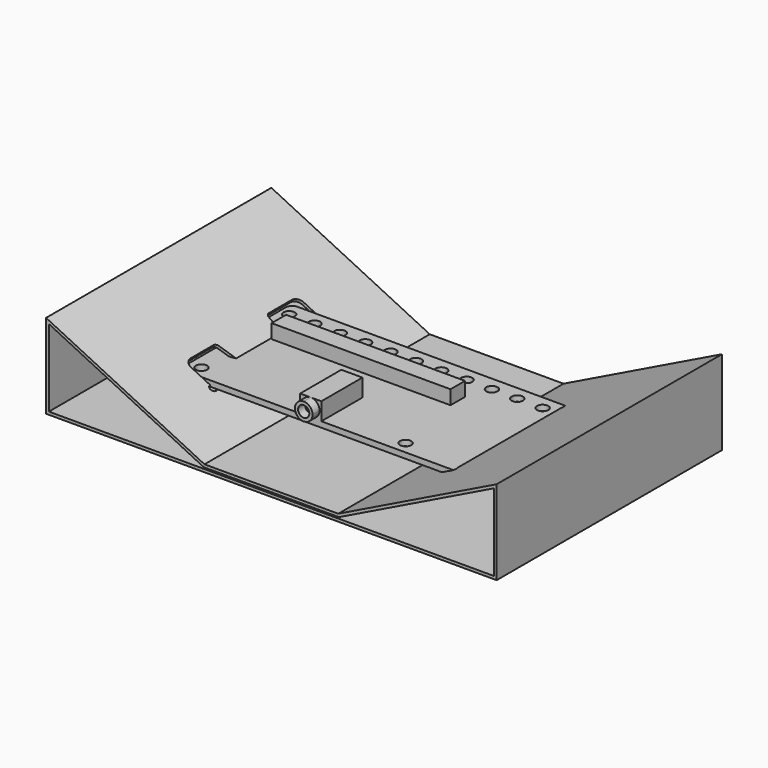
from build123d import *

# Parameters (mm, degrees)
F0_W      = 84.6
F0_H      = 39.65
F0_R      = 1.6
F1_DEPTH  = 1.6
F2_R      = 1.9
F3_W      = 6
F3_H      = 14.6
F4_DEPTH  = 5
F5_R      = 1.6
F6_DEPTH  = 2.5
F7_W      = 50.832
F7_H      = 5.148
F8_DEPTH  = 5.6
F10_DEPTH = 40
F12_DEPTH = 3
F14_DEPTH = 3
F15_R     = 1


with BuildPart() as f1:
    # F0 (on Top) → F1 (new body)
    with BuildSketch(Plane.XY):
        Rectangle(F0_W, F0_H)
        with Locations((-38.8, -16.325)):
            Circle(F0_R, mode=Mode.SUBTRACT)
        with Locations((19.2, -16.325)):
            Circle(F0_R, mode=Mode.SUBTRACT)
        with Locations((-38.8, 6.675)):
            Circle(F0_R, mode=Mode.SUBTRACT)
        with Locations((-39.6, 15.825)):
            Circle(F0_R, mode=Mode.SUBTRACT)
        with Locations((-32.4, 15.825)):
            Circle(F0_R, mode=Mode.SUBTRACT)
        with Locations((-25.2, 15.825)):
            Circle(F0_R, mode=Mode.SUBTRACT)
        with Locations((-18, 15.825)):
            Circle(F0_R, mode=Mode.SUBTRACT)
        with Locations((-10.8, 15.825)):
            Circle(F0_R, mode=Mode.SUBTRACT)
        with Locations((-3.6, 15.825)):
            Circle(F0_R, mode=Mode.SUBTRACT)
        with Locations((3.6, 15.825)):
            Circle(F0_R, mode=Mode.SUBTRACT)
        with Locations((10.8, 15.825)):
            Circle(F0_R, mode=Mode.SUBTRACT)
        with Locations((18, 15.825)):
            Circle(F0_R, mode=Mode.SUBTRACT)
        with Locations((25.2, 15.825)):
            Circle(F0_R, mode=Mode.SUBTRACT)
        with Locations((32.4, 15.825)):
            Circle(F0_R, mode=Mode.SUBTRACT)
        with Locations((39.6, 15.825)):
            Circle(F0_R, mode=Mode.SUBTRACT)
    extrude(amount=F1_DEPTH)

    # F2
    f2_edges = [f1.edges().sort_by_distance(p)[0] for p in [
        (-42.3, -19.825, 0.8),
        (-42.3, 19.825, 0.8),
        (42.3, 19.825, 0.8),
    ]]
    fillet(f2_edges, radius=F2_R)

    # F3 (on face) → F4 (join)
    with BuildSketch(Plane.XY.offset(1.6)):
        with Locations((-4.95, -12.525)):
            Rectangle(F3_W, F3_H)
    extrude(amount=F4_DEPTH)

    # F5 (on face) → F6 (join)
    with BuildSketch(Plane.XZ.offset(19.825)):
        with BuildLine():
            ThreePointArc((-4.95, 6.6), (-6.717766953, 2.332233047), (-2.45, 4.1))
            ThreePointArc((-2.45, 4.1), (-3.182233047, 5.867766953), (-4.95, 6.6))
        make_face()
        with Locations((-4.95, 4.1)):
            Circle(F5_R, mode=Mode.SUBTRACT)
    extrude(amount=F6_DEPTH)

    # F7 (on Top) → F8 (join)
    with BuildSketch(Plane.XY):
        with Locations((-9.8, 6.675)):
            Rectangle(F7_W, F7_H)
    extrude(amount=F8_DEPTH)


with BuildPart() as f10:
    # F9 (on Front) → F10 (new body, symmetric)
    with BuildSketch(Plane.XZ):
        Polygon((-19, -6.5), (-64, 15.5), (-64, -8.5), (64, -8.5), (64, 15.5), (19, -6.5), align=None)
        Polygon((-19.1850879689, -7.3), (19.1850879689, -7.3), (63.2, 14.2184014374), (63.2, -7.7), (-63.2, -7.7), (-63.2, 14.2184014374), align=None, mode=Mode.SUBTRACT)
    extrude(amount=F10_DEPTH, both=True)

    # F11 (on face) → F12 (cut)
    with BuildSketch(Plane(origin=(-6.2299721004, 0, -12.7431247509), x_dir=(0.8983843609, 0, -0.439210132), z_dir=(0.439210132, 0, 0.8983843609))):
        with BuildLine():
            Line((-30.2144369994, -20.0066703183), (-29.2144369994, -20.0066703183))
            Line((-29.2144369994, -20.0066703183), (-29.2144369994, -19.0066703183))
            ThreePointArc((-29.2144369994, -19.0066703183), (-29.9215437806, -19.2995635372), (-30.2144369994, -20.0066703183))
        make_face()
        with BuildLine():
            Line((-29.2144369994, -19.0066703183), (-29.2144369994, -20.0066703183))
            Line((-29.2144369994, -20.0066703183), (-30.2144369994, -20.0066703183))
            ThreePointArc((-30.2144369994, -20.0066703183), (-29.2144369994, -21.0066703183), (-28.2144369994, -20.0066703183))
            ThreePointArc((-28.2144369994, -20.0066703183), (-28.5073302182, -19.2995635372), (-29.2144369994, -19.0066703183))
        make_face()
        with BuildLine():
            ThreePointArc((-30.2144369994, 19.9933296817), (-29.9215437806, 19.2862229005), (-29.2144369994, 18.9933296817))
            Line((-29.2144369994, 18.9933296817), (-29.2144369994, 19.9933296817))
            Line((-29.2144369994, 19.9933296817), (-30.2144369994, 19.9933296817))
        make_face()
        with BuildLine():
            Line((-29.2144369994, 19.9933296817), (-29.2144369994, 18.9933296817))
            ThreePointArc((-29.2144369994, 18.9933296817), (-28.5073302182, 19.2862229005), (-28.2144369994, 19.9933296817))
            ThreePointArc((-28.2144369994, 19.9933296817), (-29.2144369994, 20.9933296817), (-30.2144369994, 19.9933296817))
            Line((-30.2144369994, 19.9933296817), (-29.2144369994, 19.9933296817))
        make_face()
        with BuildLine():
            ThreePointArc((-30.2144369994, -20.0066703183), (-29.9215437806, -19.2995635372), (-29.2144369994, -19.0066703183))
            Line((-29.2144369994, -19.0066703183), (-29.2144369994, 18.9933296817))
            ThreePointArc((-29.2144369994, 18.9933296817), (-29.9215437806, 19.2862229005), (-30.2144369994, 19.9933296817))
            Line((-30.2144369994, 19.9933296817), (-36.2144369994, 19.9933296817))
            ThreePointArc((-36.2144369994, 19.9933296817), (-37.6286505618, 19.407543244), (-38.2144369994, 17.9933296817))
            Line((-38.2144369994, 17.9933296817), (-38.2144369994, 9))
            Line((-38.2144369994, 9), (-29.5144369994, 7.5))
            Line((-29.5144369994, 7.5), (-29.5144369994, -7.5))
            Line((-29.5144369994, -7.5), (-38.2144369994, -9))
            Line((-38.2144369994, -9), (-38.2144369994, -18.0066703183))
            ThreePointArc((-38.2144369994, -18.0066703183), (-37.6286505618, -19.4208838807), (-36.2144369994, -20.0066703183))
            Line((-36.2144369994, -20.0066703183), (-30.2144369994, -20.0066703183))
        make_face()
    extrude(amount=-F12_DEPTH, mode=Mode.SUBTRACT)

    # F13 (on face) → F14 (cut)
    with BuildSketch(Plane(origin=(6.2299721004, 0, -12.7431247509), x_dir=(0.8983843609, 0, 0.439210132), z_dir=(-0.439210132, 0, 0.8983843609))):
        with BuildLine():
            ThreePointArc((31.2144369994, -18.3385621722), (31.5529991717, -18.0885621722), (31.9644369994, -18))
            Line((31.9644369994, -18), (31.9644369994, 0))
            Line((31.9644369994, 0), (31.2144369994, 0))
            Line((31.2144369994, 0), (31.2144369994, -18.3385621722))
        make_face()
        with BuildLine():
            Line((31.9644369994, 0), (31.9644369994, -18))
            ThreePointArc((31.9644369994, -18), (32.3758748272, -18.0885621722), (32.7144369994, -18.3385621722))
            Line((32.7144369994, -18.3385621722), (32.7144369994, 0))
            Line((32.7144369994, 0), (31.9644369994, 0))
        make_face()
        with BuildLine():
            ThreePointArc((32.7144369994, -18.3385621722), (32.3758748272, -18.0885621722), (31.9644369994, -18))
            ThreePointArc((31.9644369994, -18), (31.5529991717, -18.0885621722), (31.2144369994, -18.3385621722))
            Line((31.2144369994, -18.3385621722), (31.2144369994, -19))
            ThreePointArc((31.2144369994, -19), (31.9644369994, -19.75), (32.7144369994, -19))
            Line((32.7144369994, -19), (32.7144369994, -18.3385621722))
        make_face()
        with BuildLine():
            Line((31.2144369994, 0), (31.9644369994, 0))
            Line((31.9644369994, 0), (31.9644369994, 18))
            ThreePointArc((31.9644369994, 18), (31.5529991717, 18.0885621722), (31.2144369994, 18.3385621722))
            Line((31.2144369994, 18.3385621722), (31.2144369994, 0))
        make_face()
        with BuildLine():
            Line((31.9644369994, 18), (31.9644369994, 0))
            Line((31.9644369994, 0), (32.7144369994, 0))
            Line((32.7144369994, 0), (32.7144369994, 18.3385621722))
            ThreePointArc((32.7144369994, 18.3385621722), (32.3758748272, 18.0885621722), (31.9644369994, 18))
        make_face()
        with BuildLine():
            ThreePointArc((32.9644369994, -19), (32.8998513461, -18.6464466094), (32.7144369994, -18.3385621722))
            Line((32.7144369994, -18.3385621722), (32.7144369994, -19))
            ThreePointArc((32.7144369994, -19), (31.9644369994, -19.75), (31.2144369994, -19))
            Line((31.2144369994, -19), (31.2144369994, -18.3385621722))
            ThreePointArc((31.2144369994, -18.3385621722), (31.6108836088, -19.9354143467), (32.9644369994, -19))
        make_face()
        with BuildLine():
            ThreePointArc((31.2144369994, 18.3385621722), (31.5529991717, 18.0885621722), (31.9644369994, 18))
            ThreePointArc((31.9644369994, 18), (32.3758748272, 18.0885621722), (32.7144369994, 18.3385621722))
            Line((32.7144369994, 18.3385621722), (32.7144369994, 19))
            ThreePointArc((32.7144369994, 19), (31.9644369994, 19.75), (31.2144369994, 19))
            Line((31.2144369994, 19), (31.2144369994, 18.3385621722))
        make_face()
        with BuildLine():
            ThreePointArc((32.9644369994, 19), (31.6108836088, 19.9354143467), (31.2144369994, 18.3385621722))
            Line((31.2144369994, 18.3385621722), (31.2144369994, 19))
            ThreePointArc((31.2144369994, 19), (31.9644369994, 19.75), (32.7144369994, 19))
            Line((32.7144369994, 19), (32.7144369994, 18.3385621722))
            ThreePointArc((32.7144369994, 18.3385621722), (32.8998513461, 18.6464466094), (32.9644369994, 19))
        make_face()
    extrude(amount=-F14_DEPTH, mode=Mode.SUBTRACT)

    # F15
    f15_edges = [f10.edges().sort_by_distance(p)[0] for p in [
        (-40.736909, -9, 3.681689),
        (-40.736909, 9, 3.681689),
        (-32.920965, 7.5, -0.139439),
        (-32.920965, -7.5, -0.139439),
    ]]
    fillet(f15_edges, radius=F15_R)


with BuildPart() as f16_1:
    # F16: copy of F10
    add(f10.part)


with BuildPart() as f18_1:
    # F18: copy of F10
    add(f10.part)


solid = Compound([f1.part, f10.part])
